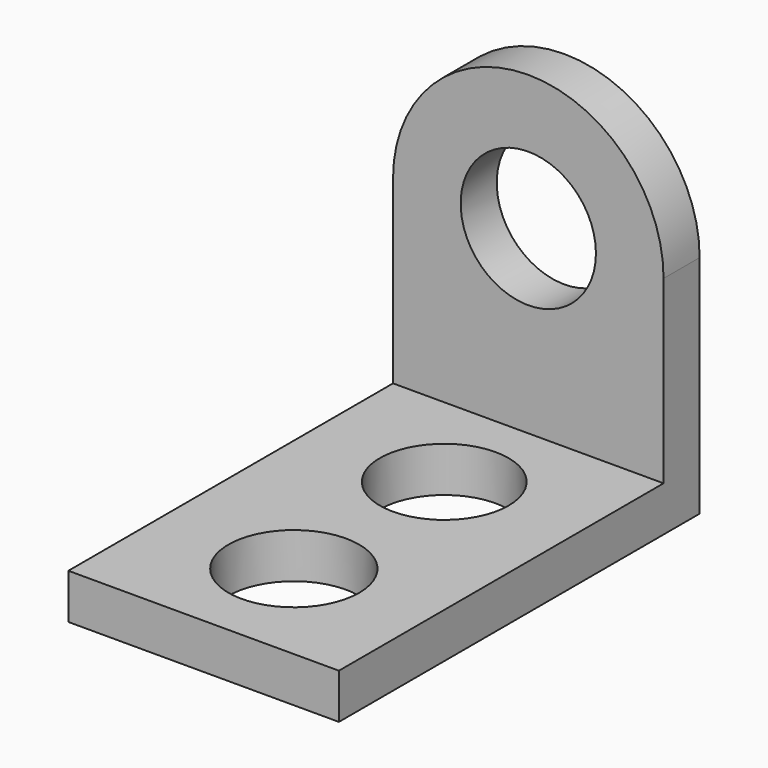
from build123d import *

# Parameters (mm, degrees)
F0_R     = 150
F1_DEPTH = 100
F0_W     = 600
F0_H     = 100
F2_DEPTH = 1000
F3_R     = 142.755464
F3_R_2   = 144.928128
F4_DEPTH = 100


with BuildPart() as f1:
    # F0 (on Front) → F1 (new body)
    with BuildSketch(Plane.XZ):
        with BuildLine():
            Line((300, -400), (300, 0))
            ThreePointArc((300, 0), (0, 300), (-300, 0))
            Line((-300, 0), (-300, -400))
            Line((-300, -400), (300, -400))
        make_face()
        Circle(F0_R, mode=Mode.SUBTRACT)
    extrude(amount=F1_DEPTH)

    # F0 (on Front) → F2 (join)
    with BuildSketch(Plane.XZ):
        with Locations((0, -450)):
            Rectangle(F0_W, F0_H)
    extrude(amount=F2_DEPTH)

    # F3 (on face) → F4 (cut)
    with BuildSketch(Plane.XY.offset(-400)):
        with Locations((0, -333)):
            Circle(F3_R)
        with Locations((0, -750)):
            Circle(F3_R_2)
    extrude(amount=-F4_DEPTH, mode=Mode.SUBTRACT)


solid = f1.part
